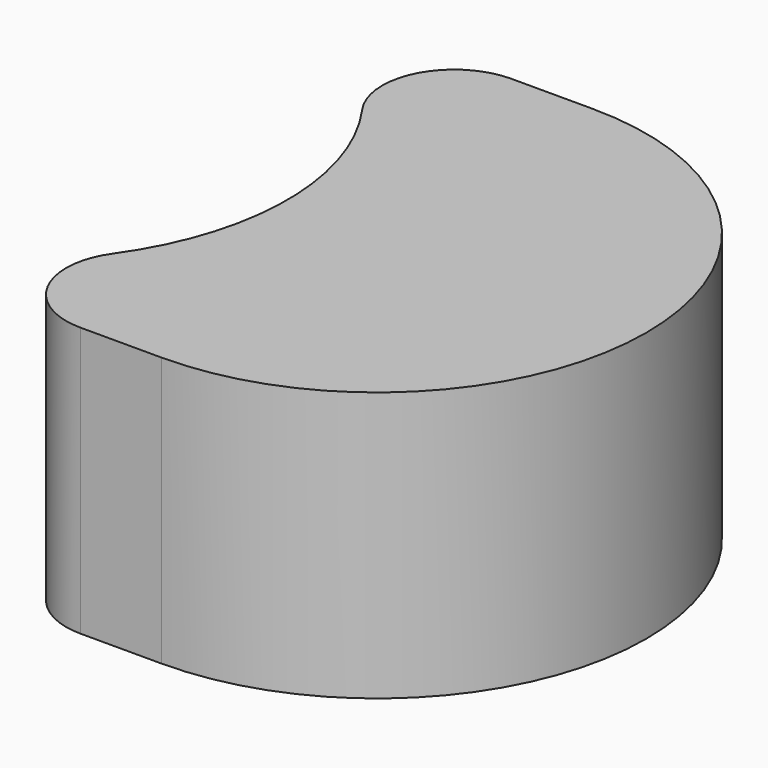
from build123d import *

# Parameters (mm, degrees)
F1_DEPTH = 4.7625
F2_R     = 1.27


with BuildPart() as f1:
    # F0 (on Top) → F1 (new body)
    with BuildSketch(Plane.XY):
        with BuildLine():
            ThreePointArc((0, 4.7625), (4.7625, 0), (0, -4.7625))
            Line((0, -4.7625), (6.35, -4.7625))
            ThreePointArc((6.35, -4.7625), (11.1125, 0), (6.35, 4.7625))
            Line((6.35, 4.7625), (0, 4.7625))
        make_face()
    extrude(amount=F1_DEPTH)

    # F2
    f2_edges = [f1.edges().sort_by_distance(p)[0] for p in [
        (0, -4.7625, 2.38125),
        (0, 4.7625, 2.38125),
    ]]
    fillet(f2_edges, radius=F2_R)


solid = f1.part
